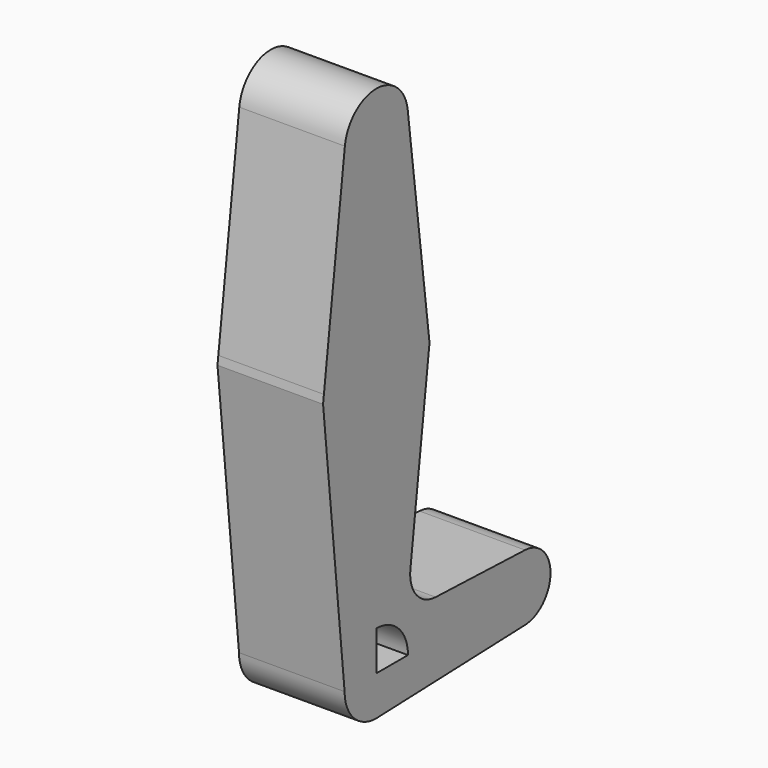
from build123d import *

# Parameters (mm, degrees)
F1_DEPTH = 25.4


with BuildPart() as f1:
    # F0 (on Right) → F1 (new body)
    with BuildSketch(Plane.YZ):
        with BuildLine():
            ThreePointArc((9.525, 50.8), (6.7351920908, 44.0648079092), (0, 41.275))
            Line((0, 41.275), (0, 15.875))
            ThreePointArc((0, 15.875), (10.5003255055, 11.9062500091), (15.7504882702, 1.9843750273))
            Line((15.7504882702, 1.9843750273), (9.4502929642, 51.990625))
            ThreePointArc((9.4502929642, 51.990625), (9.5063048942, 51.396483242), (9.525, 50.8))
        make_face()
        with BuildLine():
            Line((0, 15.875), (0, 41.275))
            ThreePointArc((0, 41.275), (-7.14375, 44.4998046905), (-9.4502929642, 51.990625))
            Line((-9.4502929642, 51.990625), (-15.7504883051, 1.9843747505))
            ThreePointArc((-15.7504883051, 1.9843747505), (-10.5003256101, 11.9062499168), (0, 15.875))
        make_face()
        with BuildLine():
            ThreePointArc((-9.4502929642, 51.990625), (-7.14375, 44.4998046905), (0, 41.275))
            ThreePointArc((0, 41.275), (6.7351920908, 44.0648079092), (9.525, 50.8))
            ThreePointArc((9.525, 50.8), (9.5063048942, 51.396483242), (9.4502929642, 51.990625))
            ThreePointArc((9.4502929642, 51.990625), (0, 60.325), (-9.4502929642, 51.990625))
        make_face()
        with BuildLine():
            ThreePointArc((15.7504882702, 1.9843750273), (10.5003255055, 11.9062500091), (0, 15.875))
            Line((0, 15.875), (0, -15.875))
            ThreePointArc((0, -15.875), (10.5003255381, -11.9062499803), (15.7504882811, -1.984374941))
            ThreePointArc((15.7504882811, -1.984374941), (15.8438414922, -0.994138707), (15.875, 0))
            ThreePointArc((15.875, 0), (15.8438414895, 0.9941387503), (15.7504882702, 1.9843750273))
        make_face()
        with BuildLine():
            Line((0, -15.875), (0, 15.875))
            ThreePointArc((0, 15.875), (-10.5003256101, 11.9062499168), (-15.7504883051, 1.9843747505))
            ThreePointArc((-15.7504883051, 1.9843747505), (-11.9062499168, -10.5003256101), (0, -15.875))
        make_face()
        with BuildLine():
            ThreePointArc((15.7504882811, -1.984374941), (10.5003255381, -11.9062499803), (0, -15.875))
            Line((0, -15.875), (0, -53.975))
            ThreePointArc((0, -53.975), (6.7351920908, -56.7648079092), (9.525, -63.5))
            Line((9.525, -63.5), (36.5125, -63.5))
            ThreePointArc((36.5125, -63.5), (38.9384772185, -57.7879930953), (44.7334821429, -55.5675637964))
            Line((44.7334821429, -55.5675637964), (17.8507837718, -54.6068545332))
            ThreePointArc((17.8507837718, -54.6068545332), (12.0791026517, -51.812957818), (10.2468749586, -45.6679514317))
            Line((10.2468749586, -45.6679514317), (15.7504882811, -1.984374941))
        make_face()
        with BuildLine():
            Line((0, -53.975), (0, -15.875))
            ThreePointArc((0, -15.875), (-11.9062499168, -10.5003256101), (-15.7504883051, 1.9843747505))
            Line((-15.7504883051, 1.9843747505), (-16.0004960241, 0))
            Line((-16.0004960241, 0), (-9.525, -63.5))
            ThreePointArc((-9.525, -63.5), (-6.7351920908, -56.7648079092), (0, -53.975))
        make_face()
        with BuildLine():
            Line((16.0004960241, 0), (15.7504882702, 1.9843750273))
            ThreePointArc((15.7504882702, 1.9843750273), (15.8438414895, 0.9941387503), (15.875, 0))
            ThreePointArc((15.875, 0), (15.8438414922, -0.994138707), (15.7504882811, -1.984374941))
            Line((15.7504882811, -1.984374941), (16.0004960241, 0))
        make_face()
        with BuildLine():
            Line((0, -63.5), (0, -53.975))
            ThreePointArc((0, -53.975), (-6.7351920908, -56.7648079092), (-9.525, -63.5))
            ThreePointArc((-9.525, -63.5), (-6.7351920908, -70.2351920908), (0, -73.025))
            Line((0, -73.025), (0.6773435479, -73.000885786))
            ThreePointArc((0.6773435479, -73.000885786), (6.9705567315, -69.9912990883), (9.525, -63.5))
            Line((9.525, -63.5), (0, -63.5))
        make_face()
        with BuildLine():
            Line((36.5125, -63.5), (9.525, -63.5))
            ThreePointArc((9.525, -63.5), (6.9705567315, -69.9912990883), (0.6773435479, -73.000885786))
            Line((0.6773435479, -73.000885786), (44.7324052746, -71.4324746146))
            ThreePointArc((44.7324052746, -71.4324746146), (38.9380895153, -69.2116327839), (36.5125, -63.5))
        make_face()
        with BuildLine():
            ThreePointArc((44.7334821429, -55.5675637964), (38.9384772185, -57.7879930953), (36.5125, -63.5))
            ThreePointArc((36.5125, -63.5), (38.9380895153, -69.2116327839), (44.7324052746, -71.4324746146))
            ThreePointArc((44.7324052746, -71.4324746146), (50.1616327839, -69.0119104847), (52.3875, -63.5))
            ThreePointArc((52.3875, -63.5), (50.1620069047, -57.9884772185), (44.7334821429, -55.5675637964))
        make_face()
        with BuildLine():
            ThreePointArc((0, -73.025), (0.3388863295, -73.0189695375), (0.6773435479, -73.000885786))
            Line((0.6773435479, -73.000885786), (0, -73.025))
        make_face()
    extrude(amount=F1_DEPTH)


solid = f1.part
